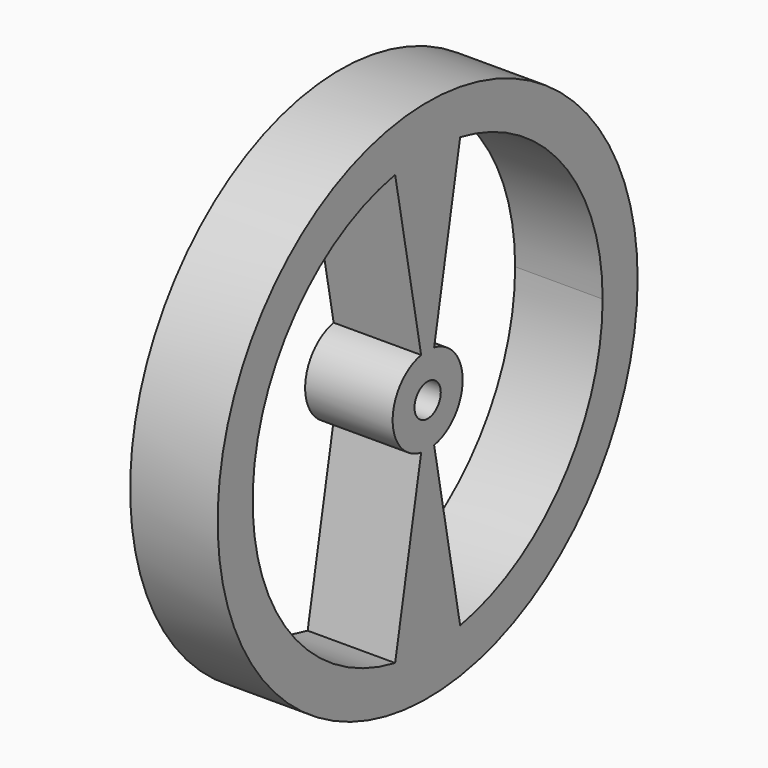
from build123d import *

# Parameters (mm, degrees)
F0_R     = 76.2
F0_R_2   = 4.7625
F1_DEPTH = 25.4


with BuildPart() as f1:
    # F0 (on Right) → F1 (new body)
    with BuildSketch(Plane.YZ):
        Circle(F0_R)
        with BuildLine():
            ThreePointArc((11.794017, 62.395121), (48.893609, 40.517465), (63.5, 0))
            ThreePointArc((63.5, 0), (48.893609, -40.517465), (11.794017, -62.395121))
            ThreePointArc((11.794017, -62.395121), (0, -63.5), (-11.794017, -62.395121))
            ThreePointArc((-11.794017, -62.395121), (-63.5, 0), (-11.794017, 62.395121))
            ThreePointArc((-11.794017, 62.395121), (0, 63.5), (11.794017, 62.395121))
        make_face(mode=Mode.SUBTRACT)
        with BuildLine():
            Line((2.358803, 12.479024), (11.794017, 62.395121))
            ThreePointArc((11.794017, 62.395121), (0, 63.5), (-11.794017, 62.395121))
            Line((-11.794017, 62.395121), (-2.358803, 12.479024))
            ThreePointArc((-2.358803, 12.479024), (0, 12.7), (2.358803, 12.479024))
        make_face()
        with BuildLine():
            ThreePointArc((12.7, 0), (9.778722, 8.103493), (2.358803, 12.479024))
            ThreePointArc((2.358803, 12.479024), (0, 12.7), (-2.358803, 12.479024))
            ThreePointArc((-2.358803, 12.479024), (-12.7, 0), (-2.358803, -12.479024))
            ThreePointArc((-2.358803, -12.479024), (0, -12.7), (2.358803, -12.479024))
            ThreePointArc((2.358803, -12.479024), (9.778722, -8.103493), (12.7, 0))
        make_face()
        Circle(F0_R_2, mode=Mode.SUBTRACT)
        with BuildLine():
            ThreePointArc((-11.794017, -62.395121), (0, -63.5), (11.794017, -62.395121))
            Line((11.794017, -62.395121), (2.358803, -12.479024))
            ThreePointArc((2.358803, -12.479024), (0, -12.7), (-2.358803, -12.479024))
            Line((-2.358803, -12.479024), (-11.794017, -62.395121))
        make_face()
    extrude(amount=F1_DEPTH)


solid = f1.part
